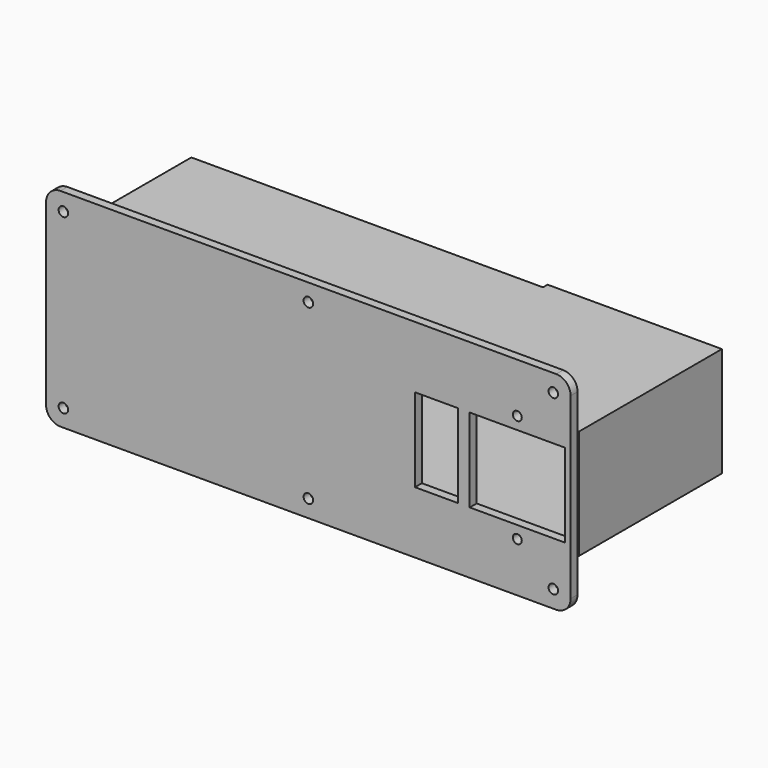
from build123d import *

# Parameters (mm, degrees)
F0_R     = 1.65
F0_R_2   = 1.55
F0_W     = 15
F0_H     = 29
F0_W_2   = 33
F1_DEPTH = 3
F2_W     = 182.5
F2_H     = 38
F2_W_2   = 178
F2_H_2   = 34
F3_DEPTH = 60
F4_R     = 2.1
F5_DEPTH = 25
F6_R     = 2.1
F7_DEPTH = 25
F8_W     = 60.5
F8_H     = 38
F9_DEPTH = 2
F10_SIZE = 5


with BuildPart() as f1:
    # F0 (on Front) → F1 (new body)
    with BuildSketch(Plane.XZ):
        with BuildLine():
            Line((86, 72), (-86, 72))
            ThreePointArc((-86, 72), (-89.5355339059, 70.5355339059), (-91, 67))
            Line((-91, 67), (-91, 5))
            ThreePointArc((-91, 5), (-89.5355339059, 1.4644660941), (-86, 0))
            Line((-86, 0), (86, 0))
            ThreePointArc((86, 0), (89.5355339059, 1.4644660941), (91, 5))
            Line((91, 5), (91, 67))
            ThreePointArc((91, 67), (89.5355339059, 70.5355339059), (86, 72))
        make_face()
        with Locations((-85, 6)):
            Circle(F0_R, mode=Mode.SUBTRACT)
        with Locations((0, 6)):
            Circle(F0_R, mode=Mode.SUBTRACT)
        with Locations((85, 6)):
            Circle(F0_R, mode=Mode.SUBTRACT)
        with Locations((72.5, 17.2)):
            Circle(F0_R_2, mode=Mode.SUBTRACT)
        with Locations((44.5, 36)):
            Rectangle(F0_W, F0_H, mode=Mode.SUBTRACT)
        with Locations((72.5, 36)):
            Rectangle(F0_W_2, F0_H, mode=Mode.SUBTRACT)
        with Locations((-85, 66)):
            Circle(F0_R, mode=Mode.SUBTRACT)
        with Locations((0, 66)):
            Circle(F0_R, mode=Mode.SUBTRACT)
        with Locations((72.5, 54.8)):
            Circle(F0_R_2, mode=Mode.SUBTRACT)
        with Locations((85, 66)):
            Circle(F0_R, mode=Mode.SUBTRACT)
    extrude(amount=F1_DEPTH)

    # F2 (on face) → F3 (join)
    with BuildSketch(Plane.XZ):
        with Locations((0.25, 36)):
            Rectangle(F2_W, F2_H)
        with Locations((0, 36)):
            Rectangle(F2_W_2, F2_H_2, mode=Mode.SUBTRACT)
    extrude(amount=-F3_DEPTH)

    # F4 (on face) → F5 (cut)
    with BuildSketch(Plane(origin=(0, 0, 17), x_dir=(1, 0, 0), z_dir=(0, 0, -1))):
        with Locations((-52.5, -47.5)):
            Circle(F4_R)
        with Locations((-2.5, -47.5)):
            Circle(F4_R)
    extrude(amount=-F5_DEPTH, mode=Mode.SUBTRACT)

    # F6 (on face) → F7 (cut)
    with BuildSketch(Plane(origin=(-91, 0, 0), x_dir=(0, -1, 0), z_dir=(-1, 0, 0))):
        with Locations((-47.5, 33.5)):
            Circle(F6_R)
    extrude(amount=-F7_DEPTH, mode=Mode.SUBTRACT)

    # F8 (on face) → F9 (join)
    with BuildSketch(Plane(origin=(0, 60, 0), x_dir=(-1, 0, 0), z_dir=(0, 1, 0))):
        with Locations((-61.25, 36)):
            Rectangle(F8_W, F8_H)
    extrude(amount=F9_DEPTH)

    # F10
    f10_edges = [f1.edges().sort_by_distance(p)[0] for p in [
        (89, 60, 36),
        (60, 60, 53),
        (60, 60, 19),
    ]]
    chamfer(f10_edges, length=F10_SIZE)


solid = f1.part
